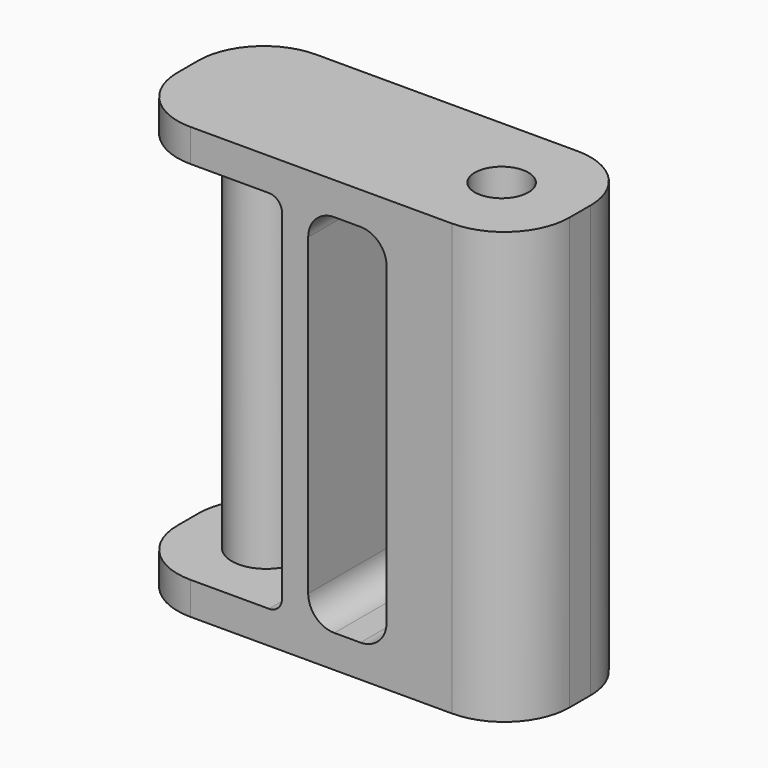
from build123d import *

# Parameters (mm, degrees)
F0_W      = 30
F0_H      = 12
F0_R      = 1.5
F1_DEPTH  = 33
F2_W      = 12
F2_H      = 28
F3_DEPTH  = 25
F4_R      = 2.65
F5_DEPTH  = 28.5
F6_R      = 5
F7_R      = 1
F8_R      = 2.05
F8_R_2    = 1.5
F9_DEPTH  = 25
F10_SIZE2 = 7.5
F10_SIZE  = 3
F11_W     = 6
F11_H     = 28
F12_DEPTH = 25
F13_R     = 2


with BuildPart() as f1:
    # F0 (on Top) → F1 (new body)
    with BuildSketch(Plane.XY):
        with Locations((15, 6)):
            Rectangle(F0_W, F0_H)
        with Locations((24, 6)):
            Circle(F0_R, mode=Mode.SUBTRACT)
    extrude(amount=F1_DEPTH)

    # F2 (on face) → F3 (cut)
    with BuildSketch(Plane.XZ):
        with Locations((6, 16.5)):
            Rectangle(F2_W, F2_H)
    extrude(amount=-F3_DEPTH, mode=Mode.SUBTRACT)

    # F4 (on face) → F5 (join)
    with BuildSketch(Plane.XY.offset(2.5)):
        with Locations((6, 6)):
            Circle(F4_R)
    extrude(amount=F5_DEPTH)

    # F6
    f6_edges = [f1.edges().sort_by_distance(p)[0] for p in [
        (0, 0, 1.25),
        (0, 0, 31.75),
        (0, 12, 1.25),
        (0, 12, 31.75),
        (30, 0, 16.5),
        (30, 12, 16.5),
    ]]
    fillet(f6_edges, radius=F6_R)

    # F7
    f7_edges = [f1.edges().sort_by_distance(p)[0] for p in [
        (12, 6, 2.5),
        (12, 6, 30.5),
    ]]
    fillet(f7_edges, radius=F7_R)

    # F8 (on face) → F9 (cut)
    with BuildSketch(Plane.XY.offset(33)):
        with Locations((24, 6)):
            Circle(F8_R)
        with Locations((24, 6)):
            Circle(F8_R_2, mode=Mode.SUBTRACT)
    extrude(amount=-F9_DEPTH, mode=Mode.SUBTRACT)

    # F10
    f10_edges = [f1.edges().sort_by_distance(p)[0] for p in [
        (22.5, 6, 0),
    ]]
    chamfer(f10_edges, length=F10_SIZE, length2=F10_SIZE2)

    # F11 (on face) → F12 (cut)
    with BuildSketch(Plane.XZ):
        with Locations((17, 16.5)):
            Rectangle(F11_W, F11_H)
    extrude(amount=-F12_DEPTH, mode=Mode.SUBTRACT)

    # F13
    f13_edges = [f1.edges().sort_by_distance(p)[0] for p in [
        (14, 6, 30.5),
        (20, 6, 30.5),
        (14, 6, 2.5),
        (20, 6, 2.5),
    ]]
    fillet(f13_edges, radius=F13_R)


solid = f1.part
